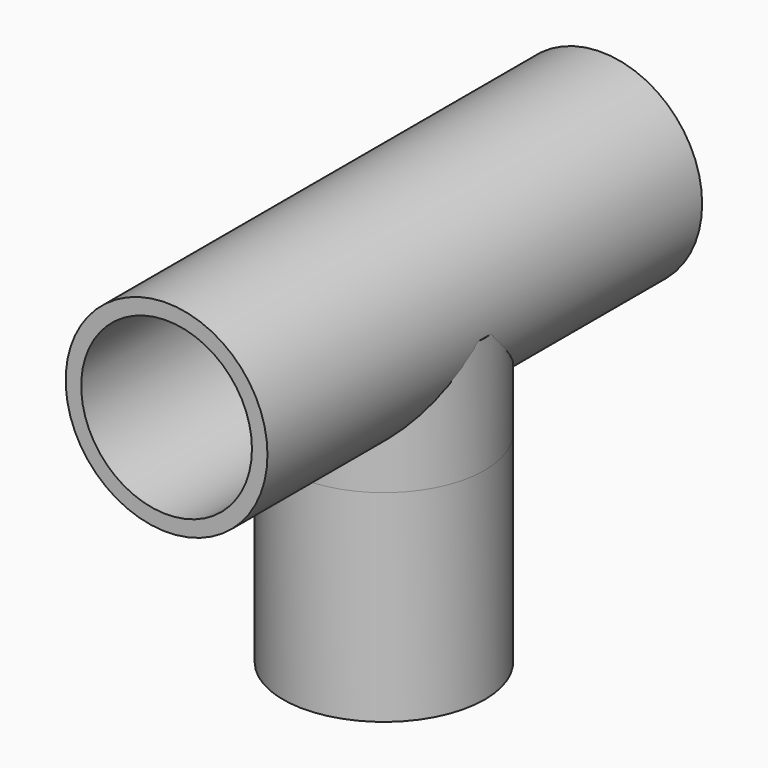
from build123d import *

# Parameters (mm, degrees)
F0_R     = 13
F0_R_2   = 11
F1_DEPTH = 25
F2_R     = 13
F2_R_2   = 11
F3_DEPTH = 35
F4_R     = 13
F5_DEPTH = 1
F6_R     = 13
F7_DEPTH = 15
F8_R     = 11
F9_DEPTH = 70


with BuildPart() as f1:
    # F0 (on Top) → F1 (new body)
    with BuildSketch(Plane.XY):
        Circle(F0_R)
        Circle(F0_R_2, mode=Mode.SUBTRACT)
    extrude(amount=F1_DEPTH)

    # F4 (on face) → F5 (join)
    with BuildSketch(Plane.XY.offset(25)):
        Circle(F4_R)
    extrude(amount=F5_DEPTH)


with BuildPart() as f3:
    # F2 (on Front) → F3 (new body, symmetric)
    with BuildSketch(Plane.XZ):
        with Locations((0, 42)):
            Circle(F2_R)
        with Locations((0, 42)):
            Circle(F2_R_2, mode=Mode.SUBTRACT)
    extrude(amount=F3_DEPTH, both=True)


with BuildPart() as f7:
    # F6 (on face) → F7 (new body)
    with BuildSketch(Plane.XY.offset(26)):
        Circle(F6_R)
    extrude(amount=F7_DEPTH)

    # F8 (on face) → F9 (cut)
    with BuildSketch(Plane.XZ.offset(35)):
        with Locations((0, 42)):
            Circle(F8_R)
    extrude(amount=-F9_DEPTH, mode=Mode.SUBTRACT)


solid = Compound([f1.part, f3.part, f7.part])
